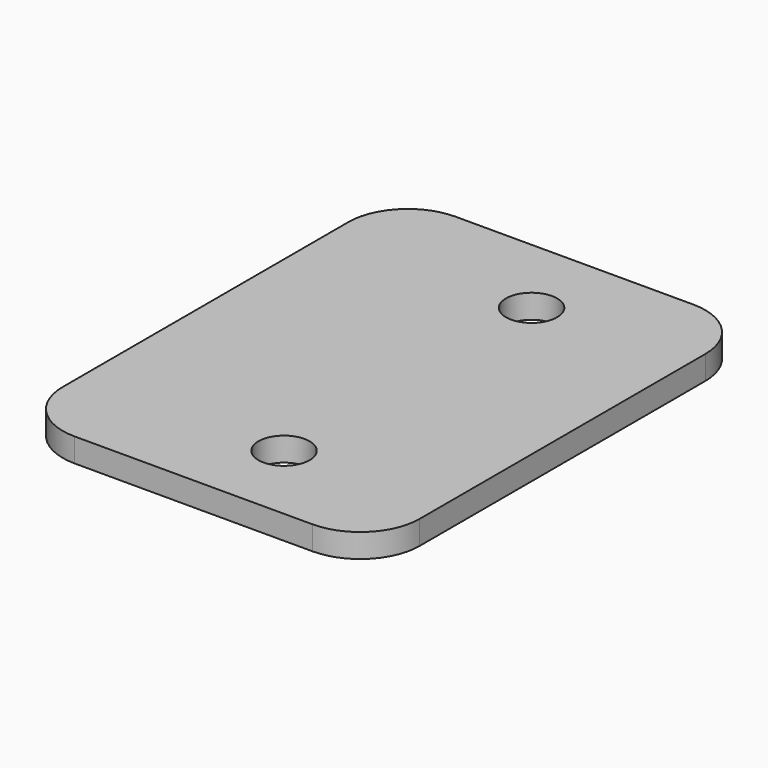
from build123d import *

# Parameters (mm, degrees)
SKETCH_R  = 2.15
PAD_DEPTH = 2


with BuildPart() as part:
    # Sketch → Pad (new body)
    with BuildSketch(Plane.XY):
        with BuildLine():
            Line((-15, 15), (-15, -15))
            ThreePointArc((-15, -15), (-13.535534, -18.535534), (-10, -20))
            Line((-10, -20), (10, -20))
            ThreePointArc((10, -20), (13.535534, -18.535534), (15, -15))
            Line((15, -15), (15, 15))
            ThreePointArc((15, 15), (13.535534, 18.535534), (10, 20))
            Line((10, 20), (-10, 20))
            ThreePointArc((-10, 20), (-13.535534, 18.535534), (-15, 15))
        make_face()
        with Locations((2, 13)):
            Circle(SKETCH_R, mode=Mode.SUBTRACT)
        with Locations((2, -13)):
            Circle(SKETCH_R, mode=Mode.SUBTRACT)
    extrude(amount=PAD_DEPTH)


solid = part.part
